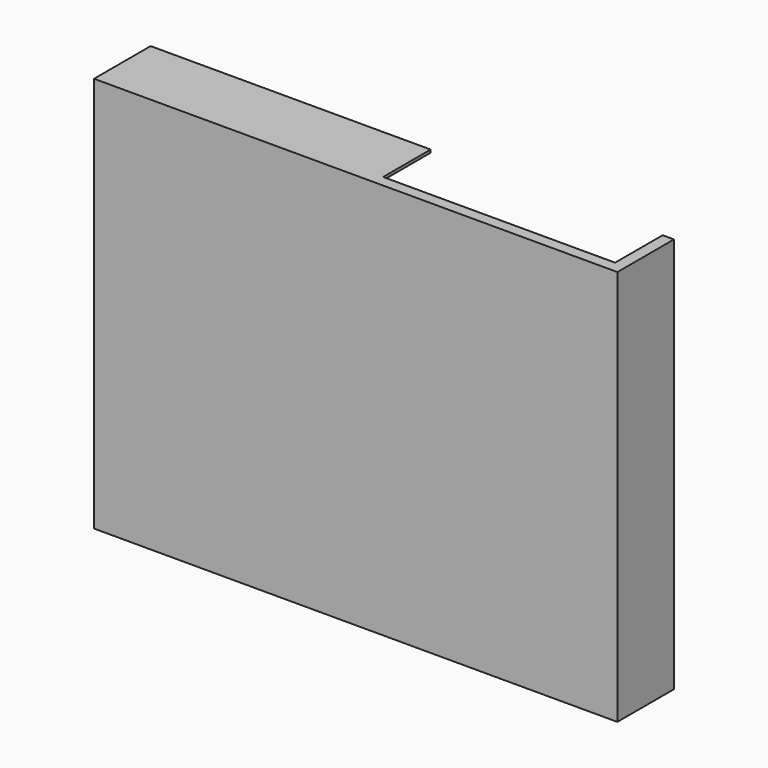
from build123d import *

# Parameters (mm, degrees)
F0_W     = 117.475
F0_H     = 88.9
F1_DEPTH = 15.875
F2_T     = -2.54
F3_W     = 60.325
F3_H     = 0.635
F4_DEPTH = 13.335


with BuildPart() as f1:
    # F0 (on Front) → F1 (new body)
    with BuildSketch(Plane.XZ):
        with Locations((-58.7375, -44.45)):
            Rectangle(F0_W, F0_H)
    extrude(amount=F1_DEPTH)

    # F2
    f2_openings = [f1.faces().sort_by_distance(p)[0] for p in [
        (-58.7375, 0, -44.45),
        (-58.7375, -7.9375, 0),
    ]]
    offset(amount=F2_T, openings=f2_openings)

    # F3 (on Front) → F4 (join, through all)
    with BuildSketch(Plane.XZ):
        with Locations((-84.7725, -0.3175)):
            Rectangle(F3_W, F3_H)
    extrude(amount=F4_DEPTH)


solid = f1.part
